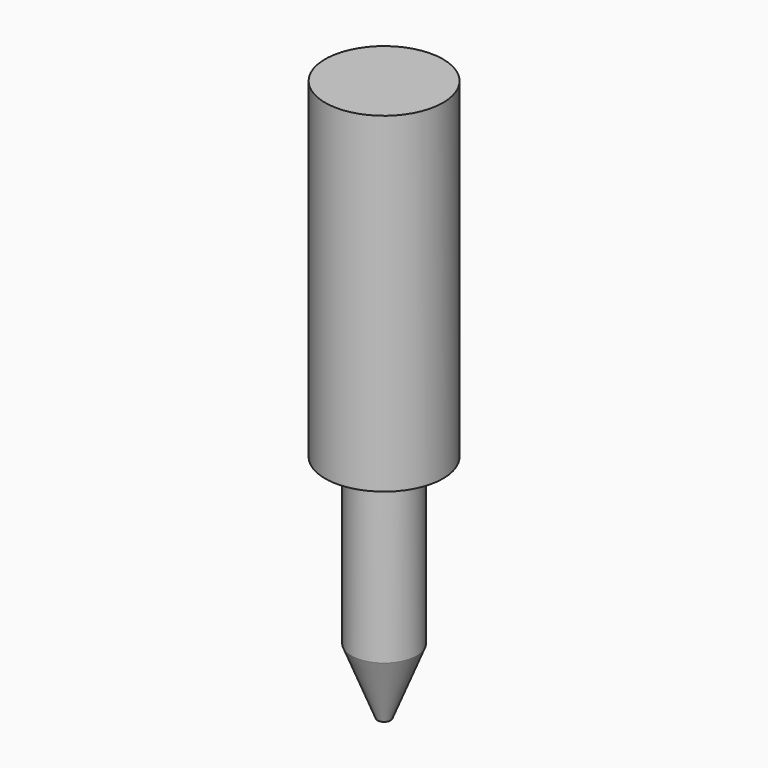
from build123d import *

# Parameters (mm, degrees)
CYLINDER001_R     = 0.5
CYLINDER001_DEPTH = 2.51
CYLINDER_R        = 0.9
CYLINDER_DEPTH    = 5.05


with BuildPart() as cylinder001:
    # Cylinder001 → Cylinder001 (new body)
    with BuildSketch(Plane(origin=(2.54, 0, -2.51), x_dir=(1, 0, 0), z_dir=(0, 0, 1))):
        Circle(CYLINDER001_R)
    extrude(amount=CYLINDER001_DEPTH)


with BuildPart() as cone:
    # Cone → Cone (revolve)
    with BuildSketch(Plane(origin=(2.54, 0, -3.51), x_dir=(1, 0, 0), z_dir=(0, -1, 0))):
        Polygon((0, 0), (0.1, 0), (0.5, 1), (0, 1), align=None)
    revolve(axis=Axis((2.54, 0, -3.51), (0, 0, 1)))


with BuildPart() as fusion:
    # Cylinder → Cylinder (new body)
    with BuildSketch(Plane(origin=(2.54, 0, 0), x_dir=(1, 0, 0), z_dir=(0, 0, 1))):
        Circle(CYLINDER_R)
    extrude(amount=CYLINDER_DEPTH)

    # Fusion: union Cylinder001, Cone
    add(cylinder001.part)
    add(cone.part)


with BuildPart() as fusion_1:
    # Fusion placement: moved
    add(fusion.part.moved(Location((0, 16.51, 0))))


solid = fusion_1.part
